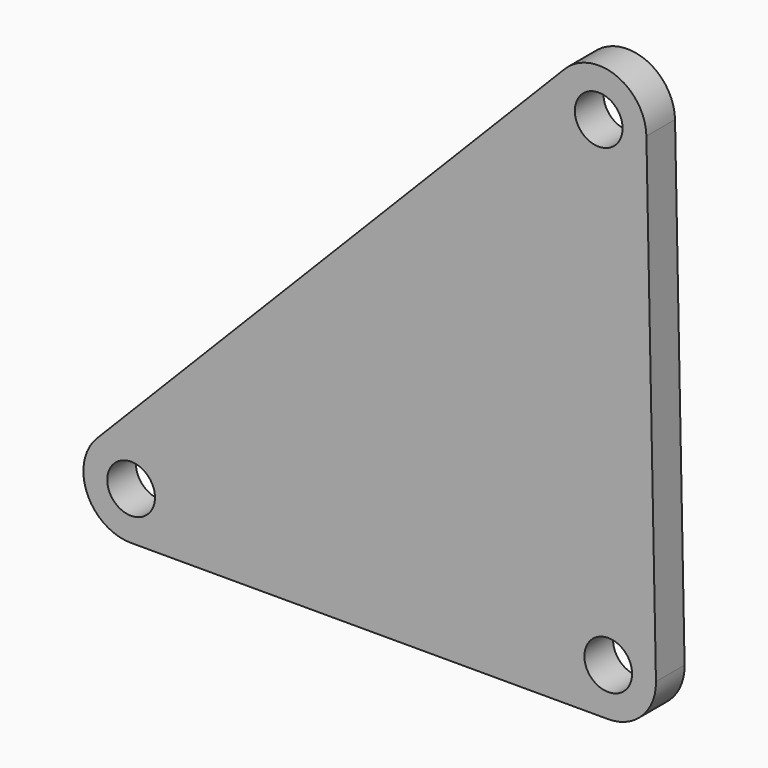
from build123d import *

# Parameters (mm, degrees)
F0_R     = 2
F1_DEPTH = 3


with BuildPart() as f1:
    # F0 (on Front) → F1 (new body)
    with BuildSketch(Plane.XZ):
        with BuildLine():
            ThreePointArc((-4.080816, 0), (-1.224245, 1.2), (-0.081616, 4.08))
            Line((-0.081616, 4.08), (-0.881616, 44.071999))
            ThreePointArc((-0.881616, 44.071999), (-3.405689, 47.710063), (-7.737388, 46.791999))
            Line((-7.737388, 46.791999), (-46.937388, 6.8))
            ThreePointArc((-46.937388, 6.8), (-47.768634, 2.450807), (-44.080816, 0))
            Line((-44.080816, 0), (-4.080816, 0))
        make_face()
        with Locations((-44.080816, 4)):
            Circle(F0_R, mode=Mode.SUBTRACT)
        with Locations((-4.080816, 4)):
            Circle(F0_R, mode=Mode.SUBTRACT)
        with Locations((-4.880816, 43.991999)):
            Circle(F0_R, mode=Mode.SUBTRACT)
    extrude(amount=F1_DEPTH)


solid = f1.part
